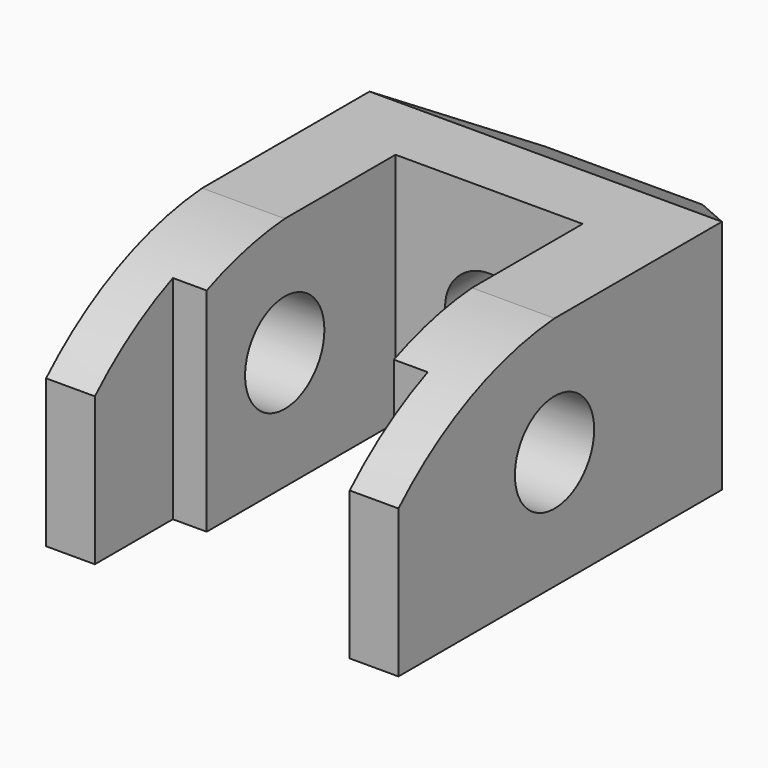
from build123d import *

# Parameters (mm, degrees)
F1_DEPTH = 38.1
F3_DEPTH = 28.448
F4_R     = 7.112
F5_DEPTH = 27.178
F6_R     = 8.001
F7_DEPTH = 28.448


with BuildPart() as f1:
    # F0 (on Top) → F1 (new body)
    with BuildSketch(Plane.XY):
        Polygon((-15.113, 0), (0, 0), (15.113, 0), (15.113, -38.1), (20.574, -38.1), (20.574, -53.848), (28.448, -53.848), (28.448, 11.43), (12.7, 27.178), (0, 27.178), (-12.7, 27.178), (-28.448, 11.43), (-28.448, -53.848), (-20.574, -53.848), (-20.574, -38.1), (-15.113, -38.1), align=None)
    extrude(amount=F1_DEPTH)

    # F2 (on Right) → F3 (cut, symmetric)
    with BuildSketch(Plane.YZ):
        Polygon((27.178, 38.1), (11.43, 38.1), (27.178, 29.0068), align=None)
        Polygon((27.178, 9.0932), (11.43, 0), (27.178, 0), align=None)
    extrude(amount=F3_DEPTH, both=True, mode=Mode.SUBTRACT)

    # F4 (on face) → F5 (cut)
    with BuildSketch(Plane(origin=(0, 27.178, 0), x_dir=(-1, 0, 0), z_dir=(0, 1, 0))):
        with Locations((0, 19.05)):
            Circle(F4_R)
    extrude(amount=-F5_DEPTH, mode=Mode.SUBTRACT)

    # F6 (on Right) → F7 (cut, symmetric)
    with BuildSketch(Plane.YZ):
        with Locations((-22.352, 19.05)):
            Circle(F6_R)
        with BuildLine():
            ThreePointArc((-53.848, 23.876), (-39.346733, 33.748623), (-22.352, 38.1))
            Line((-22.352, 38.1), (-53.848, 38.1))
            Line((-53.848, 38.1), (-53.848, 23.876))
        make_face()
    extrude(amount=F7_DEPTH, both=True, mode=Mode.SUBTRACT)


solid = f1.part
